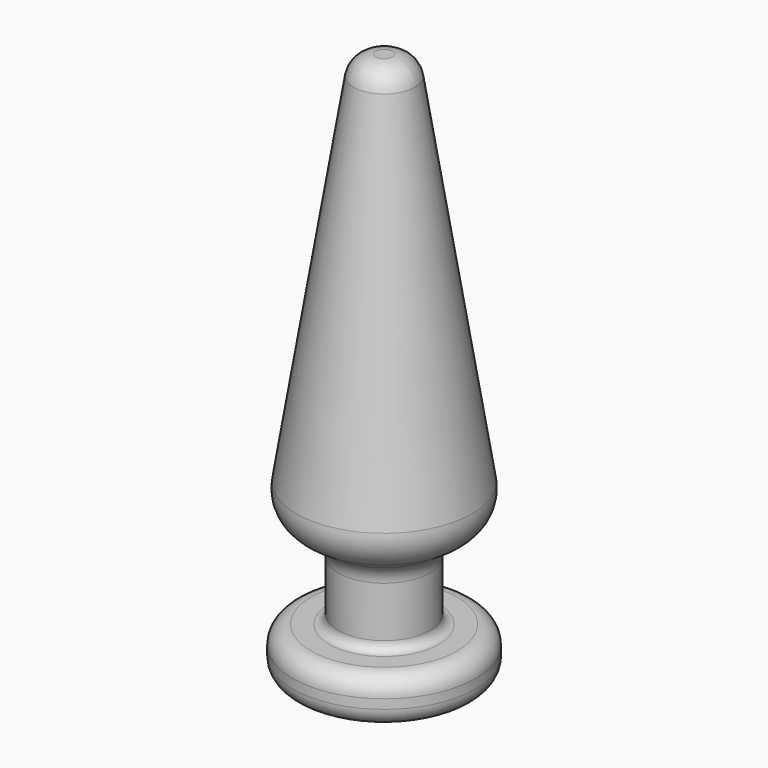
from build123d import *

# Parameters (mm, degrees)
F2_W     = 9
F2_H     = 16
F3_DEPTH = 76.2


with BuildPart() as f1:
    # F0 (on Front) → F1 (revolve)
    with BuildSketch(Plane.XZ):
        with BuildLine():
            Line((2.233813, 152.4), (0, 152.4))
            Line((0, 152.4), (0, 0))
            Line((0, 0), (20.32, 0))
            ThreePointArc((20.32, 0), (23.912102, 1.487898), (25.4, 5.08))
            Line((25.4, 5.08), (25.4, 7.663061))
            ThreePointArc((25.4, 7.663061), (23.912102, 11.255163), (20.32, 12.743061))
            Line((20.32, 12.743061), (15.24, 12.743061))
            ThreePointArc((15.24, 12.743061), (13.443949, 13.48701), (12.7, 15.283061))
            Line((12.7, 15.283061), (12.7, 29.339234))
            ThreePointArc((12.7, 29.339234), (13.444708, 32.323057), (15.504157, 34.607013))
            Line((15.504157, 34.607013), (20.017102, 37.644762))
            ThreePointArc((20.017102, 37.644762), (23.661786, 42.023533), (24.376589, 47.675648))
            Line((24.376589, 47.675648), (8.504335, 147.051524))
            ThreePointArc((8.504335, 147.051524), (6.354664, 150.881262), (2.233813, 152.4))
        make_face()
    revolve(axis=Axis((0, 0, 76.2), (0, 0, -1)))

    # F2 (on face) → F3 (cut)
    with BuildSketch(Plane(origin=(0, 0, 0), x_dir=(1, 0, 0), z_dir=(0, 0, -1))):
        Rectangle(F2_W, F2_H)
    extrude(amount=-F3_DEPTH, mode=Mode.SUBTRACT)


solid = f1.part
